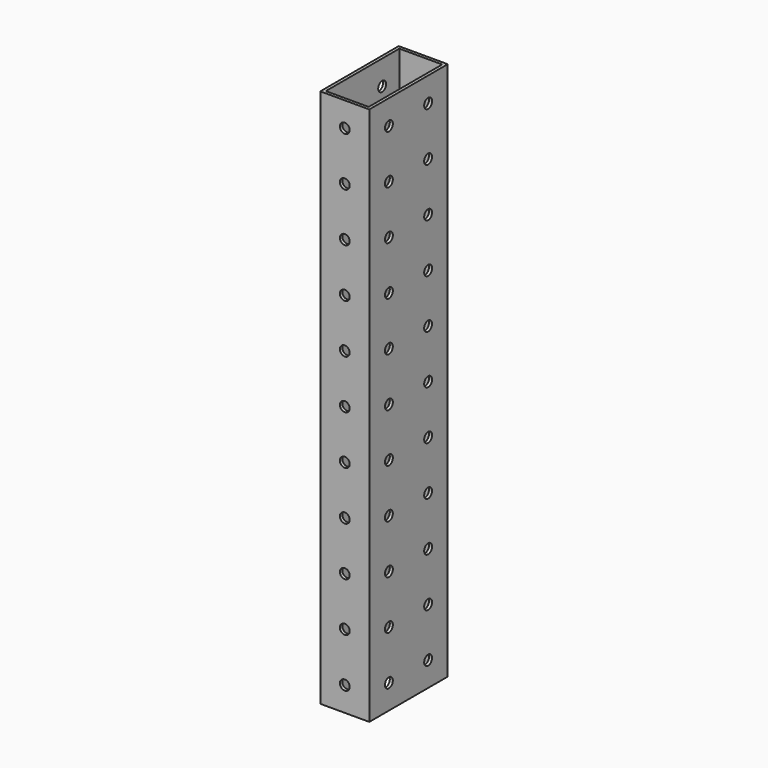
from build123d import *

# Parameters (mm, degrees)
F0_W     = 25.4
F0_H     = 50.8
F0_W_2   = 22.225
F0_H_2   = 47.625
F1_DEPTH = 279.4
F2_R     = 2.5527
F3_DEPTH = 50.801
F4_R     = 2.5527
F5_DEPTH = 25.401


with BuildPart() as f1:
    # F0 (on Top) → F1 (new body)
    with BuildSketch(Plane.XY):
        Rectangle(F0_W, F0_H)
        Rectangle(F0_W_2, F0_H_2, mode=Mode.SUBTRACT)
    extrude(amount=F1_DEPTH)

    # F2 (on face) → F3 (cut, through all)
    with BuildSketch(Plane.XZ.offset(25.4)):
        with Locations((0, 266.7)):
            Circle(F2_R)
        with Locations((0, 241.3)):
            Circle(F2_R)
        with Locations((0, 215.9)):
            Circle(F2_R)
        with Locations((0, 190.5)):
            Circle(F2_R)
        with Locations((0, 165.1)):
            Circle(F2_R)
        with Locations((0, 139.7)):
            Circle(F2_R)
        with Locations((0, 114.3)):
            Circle(F2_R)
        with Locations((0, 88.9)):
            Circle(F2_R)
        with Locations((0, 63.5)):
            Circle(F2_R)
        with Locations((0, 38.1)):
            Circle(F2_R)
        with Locations((0, 12.7)):
            Circle(F2_R)
    extrude(amount=-F3_DEPTH, mode=Mode.SUBTRACT)

    # F4 (on face) → F5 (cut, through all)
    with BuildSketch(Plane(origin=(-12.7, 0, 0), x_dir=(0, -1, 0), z_dir=(-1, 0, 0))):
        with Locations((-12.7, 12.7)):
            Circle(F4_R)
        with Locations((12.7, 12.7)):
            Circle(F4_R)
        with Locations((-12.7, 38.1)):
            Circle(F4_R)
        with Locations((-12.7, 63.5)):
            Circle(F4_R)
        with Locations((-12.7, 88.9)):
            Circle(F4_R)
        with Locations((-12.7, 114.3)):
            Circle(F4_R)
        with Locations((-12.7, 139.7)):
            Circle(F4_R)
        with Locations((-12.7, 165.1)):
            Circle(F4_R)
        with Locations((-12.7, 190.5)):
            Circle(F4_R)
        with Locations((-12.7, 215.9)):
            Circle(F4_R)
        with Locations((-12.7, 241.3)):
            Circle(F4_R)
        with Locations((-12.7, 266.7)):
            Circle(F4_R)
        with Locations((12.7, 38.1)):
            Circle(F4_R)
        with Locations((12.7, 63.5)):
            Circle(F4_R)
        with Locations((12.7, 88.9)):
            Circle(F4_R)
        with Locations((12.7, 114.3)):
            Circle(F4_R)
        with Locations((12.7, 139.7)):
            Circle(F4_R)
        with Locations((12.7, 165.1)):
            Circle(F4_R)
        with Locations((12.7, 190.5)):
            Circle(F4_R)
        with Locations((12.7, 215.9)):
            Circle(F4_R)
        with Locations((12.7, 241.3)):
            Circle(F4_R)
        with Locations((12.7, 266.7)):
            Circle(F4_R)
    extrude(amount=-F5_DEPTH, mode=Mode.SUBTRACT)


solid = f1.part
